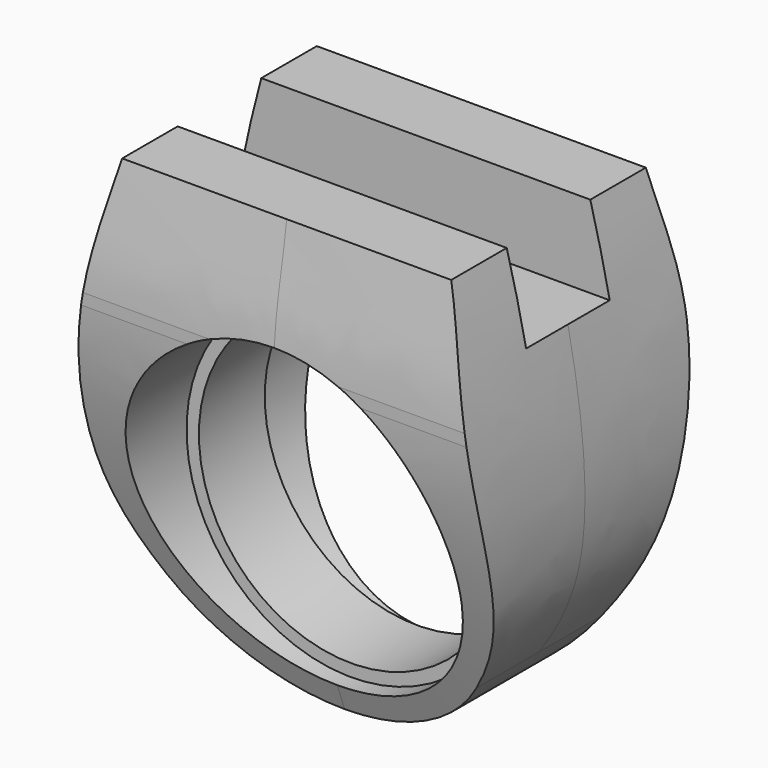
from build123d import *

# Parameters (mm, degrees)
F1_R      = 8.5
F2_DEPTH  = 8.375
F4_DEPTH  = 25
F5_R      = 9.25
F6_DEPTH  = 25
F8_R      = 10
F9_DEPTH  = 25
F11_R     = 10
F12_DEPTH = 25
F14_W     = 6.35
F14_H     = 15
F15_DEPTH = 25


with BuildPart() as f2:
    # F1 (on Front) → F2 (new body, symmetric)
    with BuildSketch(Plane.XZ):
        with BuildLine():
            Line((10, 16.5), (-10, 16.5))
            add(Edge.make_bspline(
                [(-9.4202485093, -6.596129018), (-10.7339585576, -4.7199566312), (-13.237953942, 0.2165761702), (-11.6404121135, 10.3778986471), (-10, 16.5)],
                knots=[0, 0, 0, 0, 0.3953497888, 1, 1, 1, 1], degree=3))
            ThreePointArc((-9.4202485093, -6.596129018), (0, -11.5), (9.4202485093, -6.596129018))
            add(Edge.make_bspline(
                [(9.4202485093, -6.596129018), (10.7339585576, -4.7199566312), (13.237953942, 0.2165761702), (11.6404121135, 10.3778986471), (10, 16.5)],
                knots=[0, 0, 0, 0, 0.3953497888, 1, 1, 1, 1], degree=3))
        make_face()
        Circle(F1_R, mode=Mode.SUBTRACT)
    extrude(amount=F2_DEPTH, both=True)

    # F3 (on Right) → F4 (intersect, symmetric)
    with BuildSketch(Plane.YZ):
        with BuildLine():
            Line((0, 23.2340655672), (-7.3927235128, 16.5))
            add(Edge.make_bspline(
                [(-7.3927235128, 16.5), (-7.6966545202, 14.0246805856), (-9.6172618847, 7.6235921039), (-6.1354099401, -2.8855319888), (-3, -11.5)],
                knots=[0, 0, 0, 0, 0.3841811099, 1, 1, 1, 1], degree=3))
            Line((-3, -11.5), (0, -19.7424322584))
            Line((0, -19.7424322584), (3, -11.5))
            add(Edge.make_bspline(
                [(7.3927235128, 16.5), (7.6966545202, 14.0246805856), (9.6172618847, 7.6235921039), (6.1354099401, -2.8855319888), (3, -11.5)],
                knots=[0, 0, 0, 0, 0.3841811099, 1, 1, 1, 1], degree=3))
            Line((7.3927235128, 16.5), (0, 23.2340655672))
        make_face()
    extrude(amount=F4_DEPTH, both=True, mode=Mode.INTERSECT)

    # F5 (on Front) → F6 (cut, symmetric)
    with BuildSketch(Plane.XZ):
        Circle(F5_R)
    extrude(amount=F6_DEPTH, both=True, mode=Mode.SUBTRACT)

    # F8 (on offset) → F9 (cut)
    with BuildSketch(Plane.XZ.offset(2.5)):
        Circle(F8_R)
    extrude(amount=F9_DEPTH, mode=Mode.SUBTRACT)

    # F11 (on offset) → F12 (cut)
    with BuildSketch(Plane.XZ.offset(-2.5)):
        Circle(F11_R)
    extrude(amount=-F12_DEPTH, mode=Mode.SUBTRACT)

    # F14 (on Right) → F15 (cut, symmetric)
    with BuildSketch(Plane.YZ):
        with Locations((0, 19)):
            Rectangle(F14_W, F14_H)
    extrude(amount=F15_DEPTH, both=True, mode=Mode.SUBTRACT)


solid = f2.part
